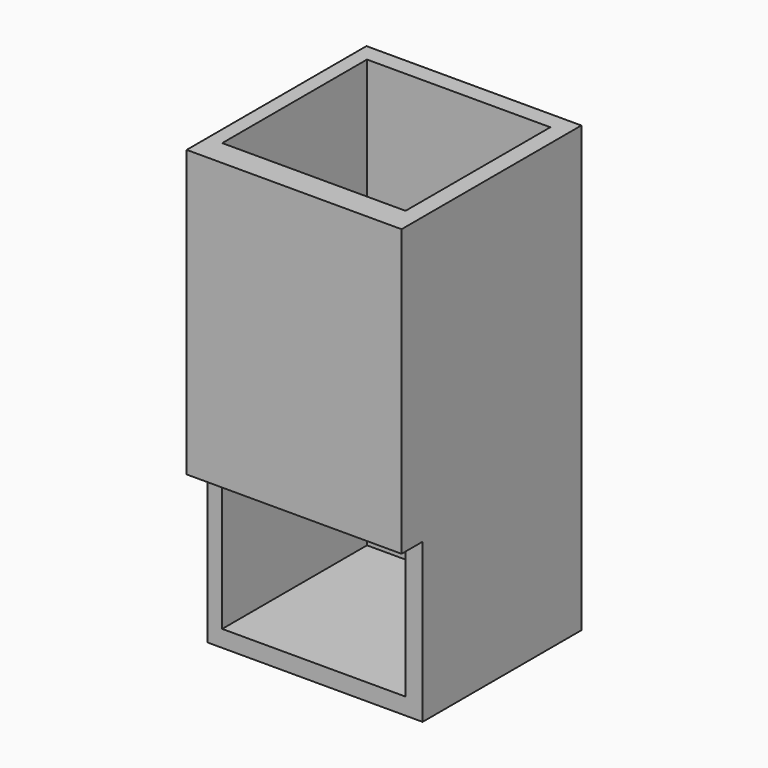
from build123d import *

# Parameters (mm, degrees)
F0_W     = 88.061482
F0_H     = 88.219233
F1_DEPTH = 182.118
F2_W     = 75.133953
F2_H     = 74.157518
F3_DEPTH = 175.26
F4_W     = 81.089504
F4_H     = 6.89533
F5_DEPTH = 183.134
F6_W     = 6.971978
F6_H     = 6.89533
F7_DEPTH = 187.706
F8_W     = 81.089504
F8_H     = 10.767195
F8_W_2   = 6.971978
F9_DEPTH = 117.094


with BuildPart() as f1:
    # F0 (on Top) → F1 (new body)
    with BuildSketch(Plane.XY):
        with Locations((2.006993, -2.8916)):
            Rectangle(F0_W, F0_H)
    extrude(amount=F1_DEPTH)

    # F2 (on face) → F3 (cut)
    with BuildSketch(Plane.XY.offset(182.118)):
        with Locations((1.49878, -3.027128)):
            Rectangle(F2_W, F2_H)
    extrude(amount=-F3_DEPTH, mode=Mode.SUBTRACT)

    # F4 (on face) → F5 (cut)
    with BuildSketch(Plane.XY.offset(182.118)):
        with Locations((-1.478996, -43.553552)):
            Rectangle(F4_W, F4_H)
    extrude(amount=-F5_DEPTH, mode=Mode.SUBTRACT)

    # F6 (on face) → F7 (cut)
    with BuildSketch(Plane(origin=(0, 0, 0), x_dir=(1, 0, 0), z_dir=(0, 0, -1))):
        with Locations((42.551745, 43.553552)):
            Rectangle(F6_W, F6_H)
    extrude(amount=-F7_DEPTH, mode=Mode.SUBTRACT)

    # F8 (on face) → F9 (join)
    with BuildSketch(Plane.XY.offset(182.118)):
        with Locations((-1.478996, -45.489484)):
            Rectangle(F8_W, F8_H)
        with Locations((42.551745, -45.489484)):
            Rectangle(F8_W_2, F8_H)
    extrude(amount=-F9_DEPTH)


solid = f1.part
